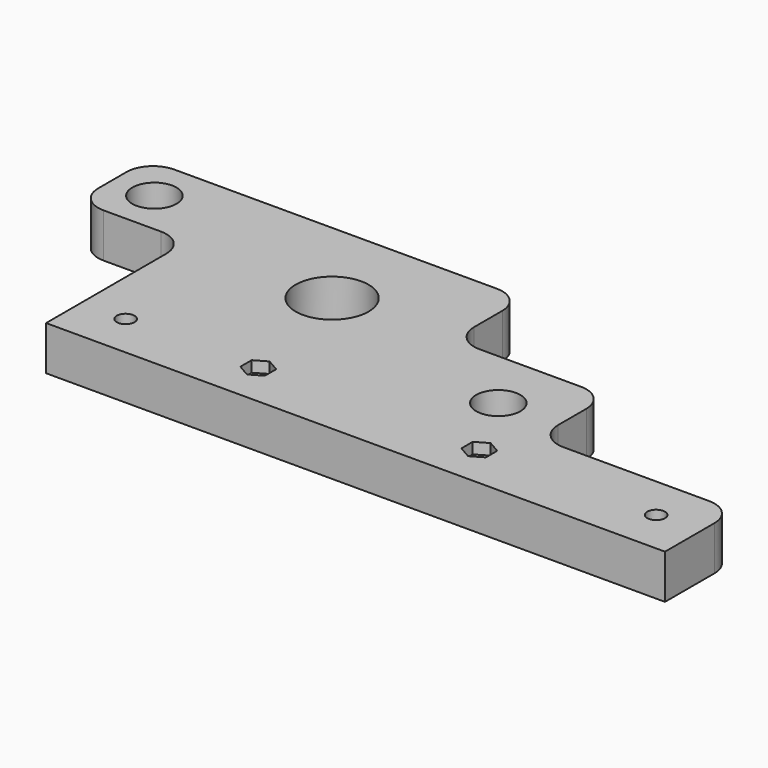
from build123d import *

# Parameters (mm, degrees)
SKETCH_R        = 2
SKETCH_R_2      = 8.25
SKETCH_R_3      = 3
SKETCH_R_4      = 1.5
PAD_DEPTH       = 10
SKETCH004_R     = 3.5
SKETCH004_R_2   = 2.8
POCKET_DEPTH    = 4
POCKET001_DEPTH = 2.5
SKETCH006_R     = 5
POCKET002_DEPTH = 6


with BuildPart() as part:
    # Sketch → Pad (new body)
    with BuildSketch(Plane.XY):
        with BuildLine():
            Line((0, 0), (0, 34))
            ThreePointArc((0, 34), (-1.757359, 38.242641), (-6, 40))
            Line((-19, 40), (-6, 40))
            ThreePointArc((-25, 46), (-23.242641, 41.757359), (-19, 40))
            Line((-25, 54), (-25, 46))
            ThreePointArc((-19, 60), (-23.242641, 58.242641), (-25, 54))
            Line((-19, 60), (54, 60))
            ThreePointArc((60, 54), (58.242641, 58.242641), (54, 60))
            Line((60, 54), (60, 46))
            ThreePointArc((60, 46), (61.757359, 41.757359), (66, 40))
            Line((66, 40), (89, 40))
            ThreePointArc((95, 34), (93.242641, 38.242641), (89, 40))
            Line((95, 34), (95, 26))
            ThreePointArc((95, 26), (96.757359, 21.757359), (101, 20))
            Line((101, 20), (134, 20))
            ThreePointArc((140, 14), (138.242641, 18.242641), (134, 20))
            Line((140, 14), (140, 0))
            Line((140, 0), (0, 0))
        make_face()
        with Locations((10, 10)):
            Circle(SKETCH_R, mode=Mode.SUBTRACT)
        with Locations((33.5, 39)):
            Circle(SKETCH_R_2, mode=Mode.SUBTRACT)
        with Locations((81.5, 26)):
            Circle(SKETCH_R_3, mode=Mode.SUBTRACT)
        with Locations((130, 10)):
            Circle(SKETCH_R, mode=Mode.SUBTRACT)
        with Locations((40, 10)):
            Circle(SKETCH_R_4, mode=Mode.SUBTRACT)
        with Locations((90, 10)):
            Circle(SKETCH_R_4, mode=Mode.SUBTRACT)
        with Locations((-15.5, 50)):
            Circle(SKETCH_R_3, mode=Mode.SUBTRACT)
    extrude(amount=PAD_DEPTH)

    # Sketch004 → Pocket (cut)
    with BuildSketch(Plane.XY):
        with Locations((10, 10)):
            Circle(SKETCH004_R)
        with Locations((40, 10)):
            Circle(SKETCH004_R_2)
        with Locations((130, 10)):
            Circle(SKETCH004_R)
        with Locations((90, 10)):
            Circle(SKETCH004_R_2)
    extrude(amount=POCKET_DEPTH, mode=Mode.SUBTRACT)

    # Sketch005 (on Face5 of Pocket) → Pocket001 (cut)
    with BuildSketch(Plane.XY.offset(10)):
        Polygon((40, 6.8), (42.771281, 8.4), (42.771281, 11.6), (40, 13.2), (37.228719, 11.6), (37.228719, 8.4), align=None)
        Polygon((90, 6.8), (92.771281, 8.4), (92.771281, 11.6), (90, 13.2), (87.228719, 11.6), (87.228719, 8.4), align=None)
    extrude(amount=-POCKET001_DEPTH, mode=Mode.SUBTRACT)

    # Sketch006 (on Face5 of Pocket) → Pocket002 (cut)
    with BuildSketch(Plane.XY.offset(10)):
        with Locations((81.5, 26)):
            Circle(SKETCH006_R)
        with Locations((-15.5, 50)):
            Circle(SKETCH006_R)
    extrude(amount=-POCKET002_DEPTH, mode=Mode.SUBTRACT)


solid = part.part
